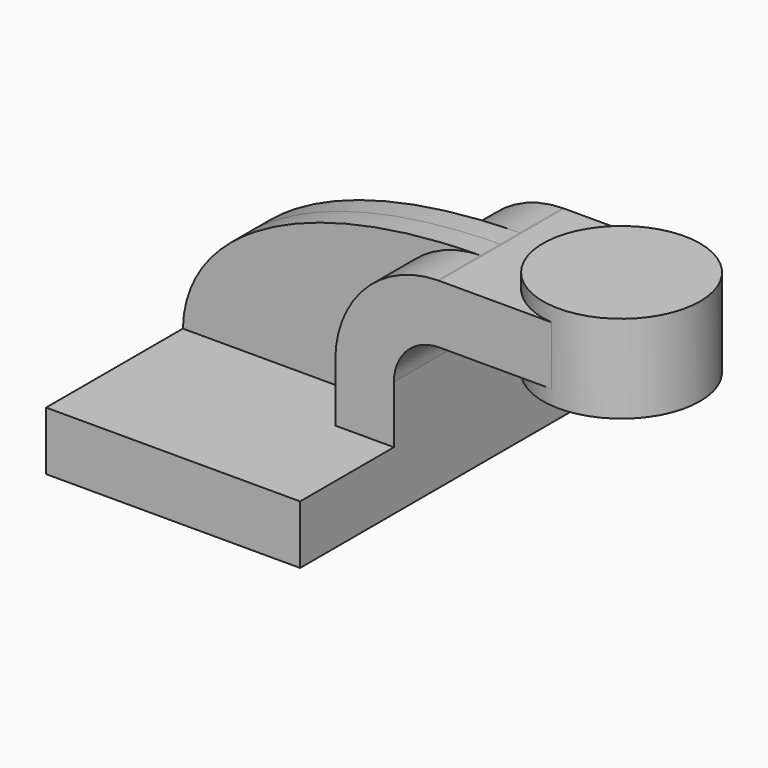
from build123d import *

# Parameters (mm, degrees)
F1_DEPTH = 63.5
F0_W     = 25.2874664307
F0_H     = 19.05
F2_DEPTH = 25.4
F3_DEPTH = 7.9375


with BuildPart() as f1:
    # F0 (on Front) → F1 (new body, symmetric)
    with BuildSketch(Plane.XZ):
        Polygon((-41.275, -9.525), (41.275, -9.525), (41.275, 9.525), (22.225, 9.525), (-41.275, 9.525), align=None)
    extrude(amount=F1_DEPTH, both=True)

    # F0 (on Front) → F2 (join, symmetric)
    with BuildSketch(Plane.XZ):
        with BuildLine():
            Line((22.225, 9.525), (41.275, 9.525))
            Line((41.275, 9.525), (41.275, 28.2031249513))
            ThreePointArc((41.275, 28.2031249513), (45.5723512877, 38.5778487123), (55.9470750487, 42.8752))
            Line((55.9470750487, 42.8752), (69.6396806002, 42.8752))
            Line((69.6396806002, 42.8752), (69.6396806002, 61.9252))
            Line((69.6396806002, 61.9252), (55.9470750487, 61.9252))
            add(Edge.make_bspline(
                [(55.5211131367, 61.9225096141), (55.6629873097, 61.9235358416), (55.8049747134, 61.9244326984), (55.9470750487, 61.9252)],
                knots=[110.1714046274, 110.1714046274, 110.1714046274, 110.1714046274, 110.4441616239, 110.4441616239, 110.4441616239, 110.4441616239], degree=3))
            ThreePointArc((55.5211131367, 61.9225096141), (31.9518394262, 51.8971540095), (22.225, 28.2031249513))
            Line((22.225, 28.2031249513), (22.225, 9.525))
        make_face()
        with Locations((82.2834138155, 52.4002)):
            Rectangle(F0_W, F0_H)
    extrude(amount=F2_DEPTH, both=True)

    # F0 (on Front) → F3 (join, symmetric)
    with BuildSketch(Plane.XZ):
        with BuildLine():
            add(Edge.make_bspline(
                [(-41.275, 9.525), (-40.6163622331, 39.9867175864), (-1.7843899966, 61.50799807), (55.5211131367, 61.9225096141)],
                knots=[0, 0, 0, 0, 110.1714046274, 110.1714046274, 110.1714046274, 110.1714046274], degree=3))
            Line((-41.275, 9.525), (22.225, 9.525))
            Line((22.225, 9.525), (22.225, 28.2031249513))
            ThreePointArc((22.225, 28.2031249513), (31.9518394262, 51.8971540095), (55.5211131367, 61.9225096141))
        make_face()
    extrude(amount=F3_DEPTH, both=True)

    # F0 (on Front) → F4 (revolve)
    with BuildSketch(Plane.XZ):
        Polygon((94.9271470308, 61.9252), (94.9271470308, 42.8752), (94.9271470308, 38.1), (120.4396806002, 38.1), (120.4396806002, 66.675), (94.9271470308, 66.675), align=None)
    revolve(axis=Axis((94.9271470308, 0, 52.3875), (0, 0, -1)))


solid = f1.part
